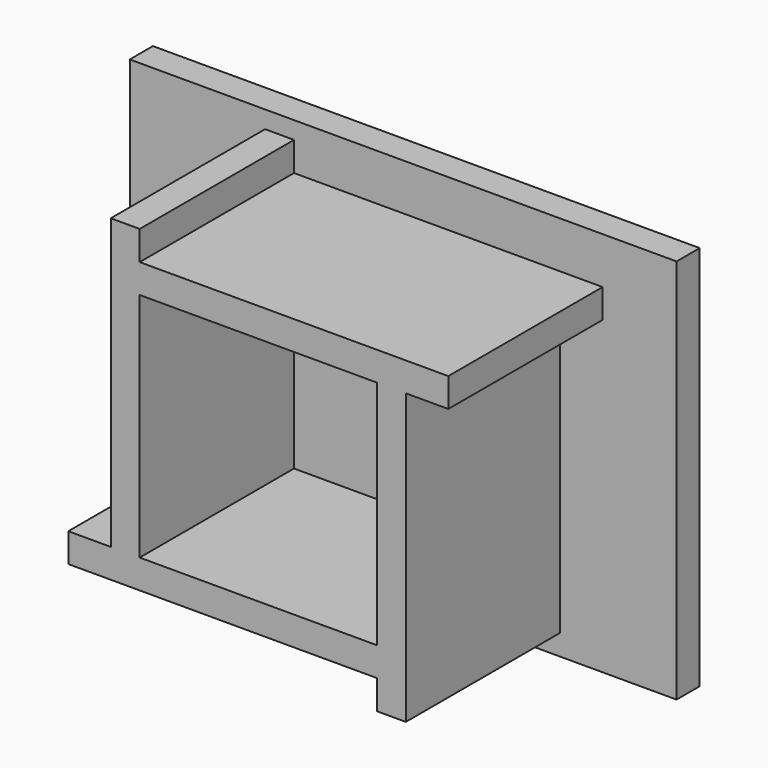
from build123d import *

# Parameters (mm, degrees)
F1_DEPTH = 127
F2_W     = 360.047168
F2_H     = 254
F3_DEPTH = 19.05


with BuildPart() as f1:
    # F0 (on Front) → F1 (new body)
    with BuildSketch(Plane.XZ):
        Polygon((-79.94371, 81.650516), (-98.99371, 81.650516), (-98.99371, -108.849484), (-79.94371, -108.849484), (-79.94371, 43.378164), (-79.94371, 62.428164), align=None)
        Polygon((123.25629, 62.428164), (-79.94371, 62.428164), (-79.94371, 43.378164), (76.237486, 43.378164), (95.287486, 43.378164), (123.25629, 43.378164), align=None)
        Polygon((76.237486, 43.378164), (76.237486, -108.849484), (76.237486, -127.899484), (76.237486, -147.121836), (95.287486, -147.121836), (95.287486, 43.378164), align=None)
        Polygon((-79.94371, -108.849484), (-98.99371, -108.849484), (-126.962514, -108.849484), (-126.962514, -127.899484), (76.237486, -127.899484), (76.237486, -108.849484), align=None)
    extrude(amount=F1_DEPTH)

    # F2 (on face) → F3 (join)
    with BuildSketch(Plane(origin=(0, 0, 0), x_dir=(-1, 0, 0), z_dir=(0, 1, 0))):
        with Locations((8.068025, -33.890009)):
            Rectangle(F2_W, F2_H)
        with Locations((8.068025, -33.890009)):
            Rectangle(F2_W, F2_H)
        with Locations((8.068025, -33.890009)):
            Rectangle(F2_W, F2_H)
    extrude(amount=F3_DEPTH)


solid = f1.part
